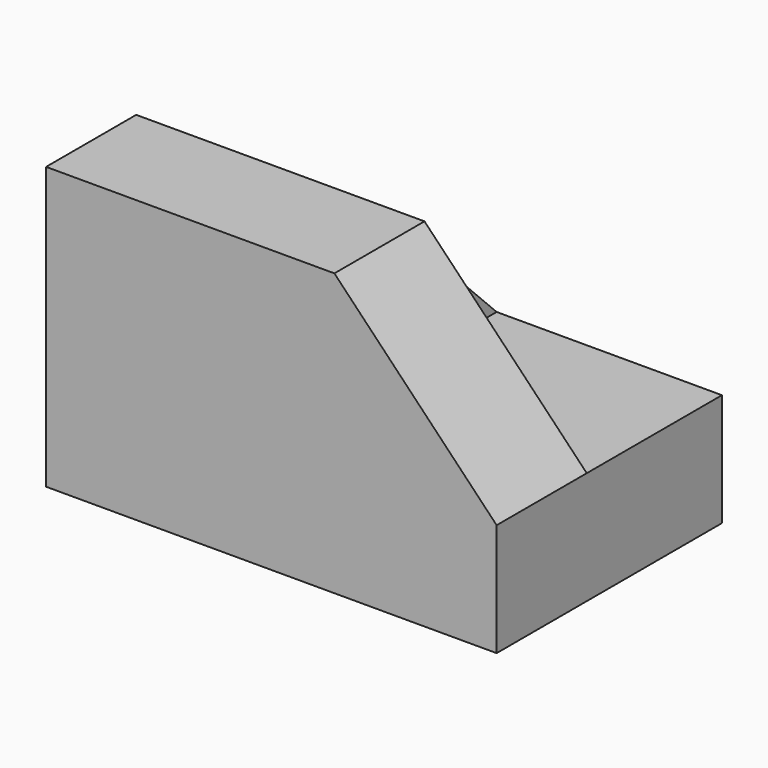
from build123d import *

# Parameters (mm, degrees)
F0_W     = 50.8
F0_H     = 31.75
F1_DEPTH = 12.7
F2_W     = 50.8
F2_H     = 19.05
F3_DEPTH = 12.7
F5_DEPTH = 25.4
F6_W     = 9.14671
F6_H     = 19.05
F7_DEPTH = 19.05
F9_DEPTH = 25.4


with BuildPart() as f1:
    # F0 (on Top) → F1 (new body)
    with BuildSketch(Plane.XY):
        with Locations((-7.10658, 15.875)):
            Rectangle(F0_W, F0_H)
    extrude(amount=F1_DEPTH)

    # F2 (on face) → F3 (join)
    with BuildSketch(Plane.XZ):
        with Locations((-7.10658, 22.225)):
            Rectangle(F2_W, F2_H)
    extrude(amount=-F3_DEPTH)

    # F4 (on face) → F5 (cut)
    with BuildSketch(Plane.XZ):
        Polygon((18.29342, 31.75), (0, 31.75), (18.29342, 12.7), align=None)
    extrude(amount=-F5_DEPTH, mode=Mode.SUBTRACT)

    # F6 (on face) → F7 (join)
    with BuildSketch(Plane(origin=(0, 12.7, 0), x_dir=(-1, 0, 0), z_dir=(0, 1, 0))):
        with Locations((11.679935, 22.225)):
            Rectangle(F6_W, F6_H)
    extrude(amount=F7_DEPTH)

    # F8 (on face) → F9 (cut)
    with BuildSketch(Plane.YZ.offset(-7.10658)):
        Polygon((31.75, 31.75), (12.7, 31.75), (31.75, 12.7), align=None)
    extrude(amount=-F9_DEPTH, mode=Mode.SUBTRACT)


solid = f1.part
